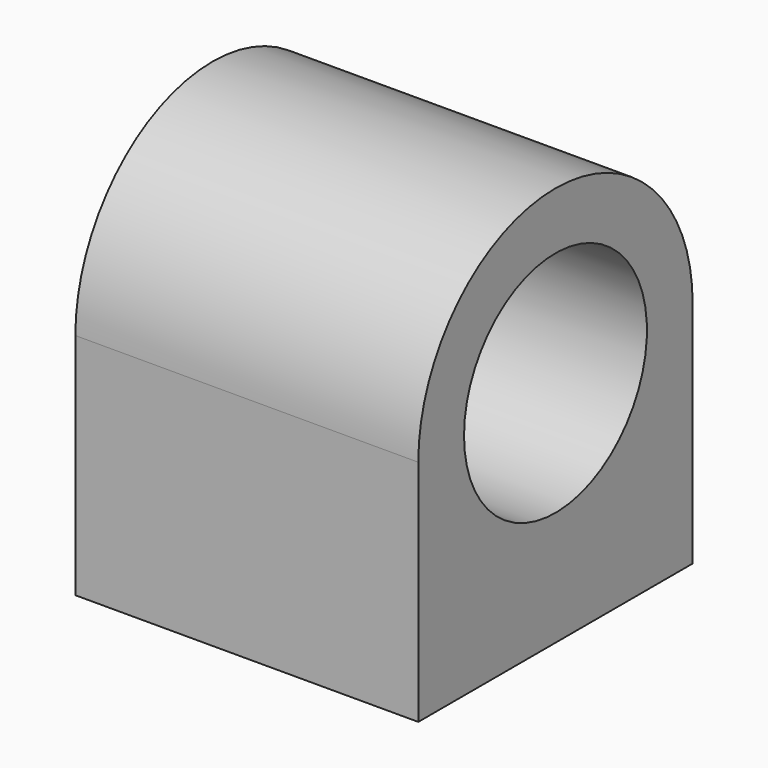
from build123d import *

# Parameters (mm, degrees)
F1_DEPTH = 19.05
F2_R     = 3.175
F3_DEPTH = 12.7


with BuildPart() as f1:
    # F0 (on Right) → F1 (new body, symmetric)
    with BuildSketch(Plane.YZ):
        with BuildLine():
            Line((19.05, 0), (12.7, 0))
            ThreePointArc((12.7, 0), (0, -12.7), (-12.7, 0))
            Line((-12.7, 0), (-19.05, 0))
            ThreePointArc((-19.05, 0), (0, -19.05), (19.05, 0))
        make_face()
        with BuildLine():
            ThreePointArc((-12.7, 0), (0, 12.7), (12.7, 0))
            Line((12.7, 0), (19.05, 0))
            ThreePointArc((19.05, 0), (0, 19.05), (-19.05, 0))
            Line((-19.05, 0), (-12.7, 0))
        make_face()
        with BuildLine():
            Line((19.05, -25.4), (19.05, 0))
            ThreePointArc((19.05, 0), (0, -19.05), (-19.05, 0))
            Line((-19.05, 0), (-19.05, -25.4))
            Line((-19.05, -25.4), (19.05, -25.4))
        make_face()
    extrude(amount=F1_DEPTH, both=True)

    # F2 (on face) → F3 (cut)
    with BuildSketch(Plane(origin=(0, 0, -25.4), x_dir=(1, 0, 0), z_dir=(0, 0, -1))):
        with Locations((0, 12.7)):
            Circle(F2_R)
        with Locations((0, -12.7)):
            Circle(F2_R)
    extrude(amount=-F3_DEPTH, mode=Mode.SUBTRACT)


solid = f1.part
